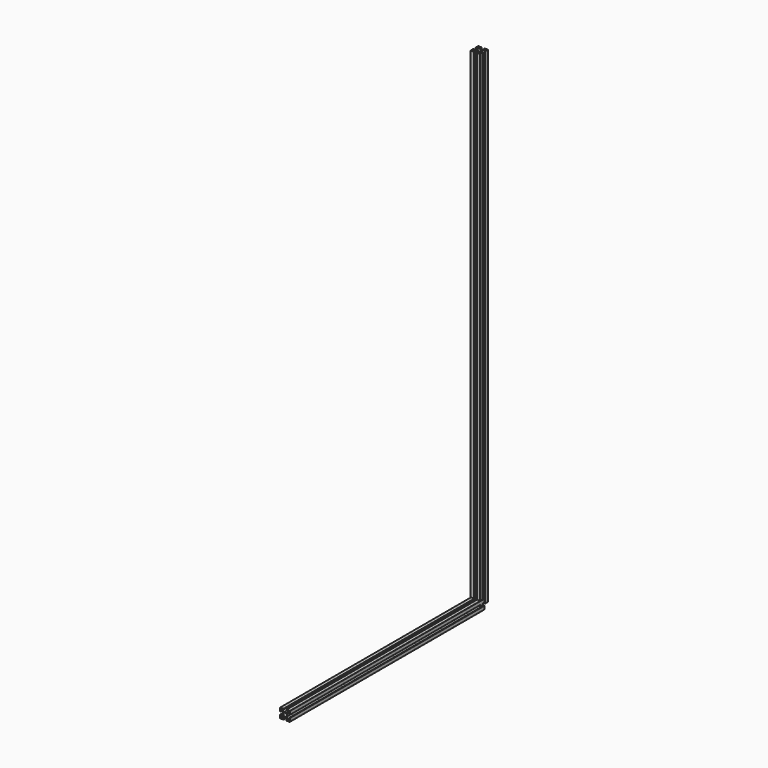
from build123d import *

# Parameters (mm, degrees)
F2_DEPTH = 1000
F5_DEPTH = 500


with BuildPart() as f2:
    # F1 (on Top) → F2 (new body)
    with BuildSketch(Plane.XY):
        with BuildLine():
            Line((3.15, -10), (9.5, -10))
            ThreePointArc((9.5, -10), (9.8535533906, -9.8535533906), (10, -9.5))
            Line((10, -9.5), (10, -3.15))
            ThreePointArc((10, -3.15), (9.8535533906, -2.7964466094), (9.5, -2.65))
            Line((9.5, -2.65), (9, -2.65))
            ThreePointArc((9, -2.65), (8.6464466094, -2.7964466094), (8.5, -3.15))
            Line((8.5, -3.15), (8.5, -6.232233047))
            ThreePointArc((8.5, -6.232233047), (8.1913417162, -6.6941728133), (7.6464466094, -6.5857864376))
            Line((7.6464466094, -6.5857864376), (3.7564466094, -2.6957864376))
            ThreePointArc((3.7564466094, -2.6957864376), (3.6480602337, -2.5335747632), (3.61, -2.342233047))
            Line((3.61, -2.342233047), (3.61, 0))
            Line((3.61, 0), (3.61, 2.342233047))
            ThreePointArc((3.61, 2.342233047), (3.6480602337, 2.5335747632), (3.7564466094, 2.6957864376))
            Line((3.7564466094, 2.6957864376), (7.6464466094, 6.5857864376))
            ThreePointArc((7.6464466094, 6.5857864376), (8.1913417162, 6.6941728133), (8.5, 6.232233047))
            Line((8.5, 6.232233047), (8.5, 3.15))
            ThreePointArc((8.5, 3.15), (8.6464466094, 2.7964466094), (9, 2.65))
            Line((9, 2.65), (9.5, 2.65))
            ThreePointArc((9.5, 2.65), (9.8535533906, 2.7964466094), (10, 3.15))
            Line((10, 3.15), (10, 9.5))
            ThreePointArc((10, 9.5), (9.8535533906, 9.8535533906), (9.5, 10))
            Line((9.5, 10), (3.15, 10))
            ThreePointArc((3.15, 10), (2.7964466094, 9.8535533906), (2.65, 9.5))
            Line((2.65, 9.5), (2.65, 9))
            ThreePointArc((2.65, 9), (2.7964466094, 8.6464466094), (3.15, 8.5))
            Line((3.15, 8.5), (6.232233047, 8.5))
            ThreePointArc((6.232233047, 8.5), (6.6941728133, 8.1913417162), (6.5857864376, 7.6464466094))
            Line((6.5857864376, 7.6464466094), (2.6957864376, 3.7564466094))
            ThreePointArc((2.6957864376, 3.7564466094), (2.5335747632, 3.6480602337), (2.342233047, 3.61))
            Line((2.342233047, 3.61), (0, 3.61))
            Line((0, 3.61), (-2.342233047, 3.61))
            ThreePointArc((-2.342233047, 3.61), (-2.5335747632, 3.6480602337), (-2.6957864376, 3.7564466094))
            Line((-2.6957864376, 3.7564466094), (-6.5857864376, 7.6464466094))
            ThreePointArc((-6.5857864376, 7.6464466094), (-6.6941728133, 8.1913417162), (-6.232233047, 8.5))
            Line((-6.232233047, 8.5), (-3.15, 8.5))
            ThreePointArc((-3.15, 8.5), (-2.7964466094, 8.6464466094), (-2.65, 9))
            Line((-2.65, 9), (-2.65, 9.5))
            ThreePointArc((-2.65, 9.5), (-2.7964466094, 9.8535533906), (-3.15, 10))
            Line((-3.15, 10), (-9.5, 10))
            ThreePointArc((-9.5, 10), (-9.8535533906, 9.8535533906), (-10, 9.5))
            Line((-10, 9.5), (-10, 3.15))
            ThreePointArc((-10, 3.15), (-9.8535533906, 2.7964466094), (-9.5, 2.65))
            Line((-9.5, 2.65), (-9, 2.65))
            ThreePointArc((-9, 2.65), (-8.6464466094, 2.7964466094), (-8.5, 3.15))
            Line((-8.5, 3.15), (-8.5, 6.232233047))
            ThreePointArc((-8.5, 6.232233047), (-8.1913417162, 6.6941728133), (-7.6464466094, 6.5857864376))
            Line((-7.6464466094, 6.5857864376), (-3.7564466094, 2.6957864376))
            ThreePointArc((-3.7564466094, 2.6957864376), (-3.6480602337, 2.5335747632), (-3.61, 2.342233047))
            Line((-3.61, 2.342233047), (-3.61, 0))
            Line((-3.61, 0), (-3.61, -2.342233047))
            ThreePointArc((-3.61, -2.342233047), (-3.6480602337, -2.5335747632), (-3.7564466094, -2.6957864376))
            Line((-3.7564466094, -2.6957864376), (-7.6464466094, -6.5857864376))
            ThreePointArc((-7.6464466094, -6.5857864376), (-8.1913417162, -6.6941728133), (-8.5, -6.232233047))
            Line((-8.5, -6.232233047), (-8.5, -2.95))
            ThreePointArc((-8.5, -2.95), (-8.5878679656, -2.7378679656), (-8.8, -2.65))
            Line((-8.8, -2.65), (-9.5, -2.65))
            ThreePointArc((-9.5, -2.65), (-9.8535533906, -2.7964466094), (-10, -3.15))
            Line((-10, -3.15), (-10, -9.5))
            ThreePointArc((-10, -9.5), (-9.8535533906, -9.8535533906), (-9.5, -10))
            Line((-9.5, -10), (-3.15, -10))
            ThreePointArc((-3.15, -10), (-2.7964466094, -9.8535533906), (-2.65, -9.5))
            Line((-2.65, -9.5), (-2.65, -9))
            ThreePointArc((-2.65, -9), (-2.7964466094, -8.6464466094), (-3.15, -8.5))
            Line((-3.15, -8.5), (-6.232233047, -8.5))
            ThreePointArc((-6.232233047, -8.5), (-6.6941728133, -8.1913417162), (-6.5857864376, -7.6464466094))
            Line((-6.5857864376, -7.6464466094), (-2.6957864376, -3.7564466094))
            ThreePointArc((-2.6957864376, -3.7564466094), (-2.5335747632, -3.6480602337), (-2.342233047, -3.61))
            Line((-2.342233047, -3.61), (0, -3.61))
            Line((0, -3.61), (2.342233047, -3.61))
            ThreePointArc((2.342233047, -3.61), (2.5335747632, -3.6480602337), (2.6957864376, -3.7564466094))
            Line((2.6957864376, -3.7564466094), (6.5857864376, -7.6464466094))
            ThreePointArc((6.5857864376, -7.6464466094), (6.6941728133, -8.1913417162), (6.232233047, -8.5))
            Line((6.232233047, -8.5), (3.15, -8.5))
            ThreePointArc((3.15, -8.5), (2.7964466094, -8.6464466094), (2.65, -9))
            Line((2.65, -9), (2.65, -9.5))
            ThreePointArc((2.65, -9.5), (2.7964466094, -9.8535533906), (3.15, -10))
        make_face()
    extrude(amount=F2_DEPTH)


with BuildPart() as f5:
    # F4 (on Front) → F5 (new body)
    with BuildSketch(Plane.XZ):
        with BuildLine():
            Line((3.7936762605, -9.7476280873), (10.1436762605, -9.7476280873))
            ThreePointArc((10.1436762605, -9.7476280873), (10.4972296511, -9.6011814779), (10.6436762605, -9.2476280873))
            Line((10.6436762605, -9.2476280873), (10.6436762605, -2.8976280873))
            ThreePointArc((10.6436762605, -2.8976280873), (10.4972296511, -2.5440746967), (10.1436762605, -2.3976280873))
            Line((10.1436762605, -2.3976280873), (9.6436762605, -2.3976280873))
            ThreePointArc((9.6436762605, -2.3976280873), (9.2901228699, -2.5440746967), (9.1436762605, -2.8976280873))
            Line((9.1436762605, -2.8976280873), (9.1436762605, -5.9798611343))
            ThreePointArc((9.1436762605, -5.9798611343), (8.8350179767, -6.4418009006), (8.2901228699, -6.3334145249))
            Line((8.2901228699, -6.3334145249), (4.4001228699, -2.4434145249))
            ThreePointArc((4.4001228699, -2.4434145249), (4.2917364943, -2.2812028505), (4.2536762605, -2.0898611343))
            Line((4.2536762605, -2.0898611343), (4.2536762605, 0.2523719127))
            Line((4.2536762605, 0.2523719127), (4.2536762605, 2.5946049597))
            ThreePointArc((4.2536762605, 2.5946049597), (4.2917364943, 2.7859466759), (4.4001228699, 2.9481583503))
            Line((4.4001228699, 2.9481583503), (8.2901228699, 6.8381583503))
            ThreePointArc((8.2901228699, 6.8381583503), (8.8350179767, 6.946544726), (9.1436762605, 6.4846049597))
            Line((9.1436762605, 6.4846049597), (9.1436762605, 3.4023719127))
            ThreePointArc((9.1436762605, 3.4023719127), (9.2901228699, 3.0488185221), (9.6436762605, 2.9023719127))
            Line((9.6436762605, 2.9023719127), (10.1436762605, 2.9023719127))
            ThreePointArc((10.1436762605, 2.9023719127), (10.4972296511, 3.0488185221), (10.6436762605, 3.4023719127))
            Line((10.6436762605, 3.4023719127), (10.6436762605, 9.7523719127))
            ThreePointArc((10.6436762605, 9.7523719127), (10.4972296511, 10.1059253033), (10.1436762605, 10.2523719127))
            Line((10.1436762605, 10.2523719127), (3.7936762605, 10.2523719127))
            ThreePointArc((3.7936762605, 10.2523719127), (3.4401228699, 10.1059253033), (3.2936762605, 9.7523719127))
            Line((3.2936762605, 9.7523719127), (3.2936762605, 9.2523719127))
            ThreePointArc((3.2936762605, 9.2523719127), (3.4401228699, 8.8988185221), (3.7936762605, 8.7523719127))
            Line((3.7936762605, 8.7523719127), (6.8759093076, 8.7523719127))
            ThreePointArc((6.8759093076, 8.7523719127), (7.3378490738, 8.4437136289), (7.2294626982, 7.8988185221))
            Line((7.2294626982, 7.8988185221), (3.3394626982, 4.0088185221))
            ThreePointArc((3.3394626982, 4.0088185221), (3.1772510238, 3.9004321465), (2.9859093076, 3.8623719127))
            Line((2.9859093076, 3.8623719127), (0.6436762605, 3.8623719127))
            Line((0.6436762605, 3.8623719127), (-1.6985567865, 3.8623719127))
            ThreePointArc((-1.6985567865, 3.8623719127), (-1.8898985027, 3.9004321465), (-2.0521101771, 4.0088185221))
            Line((-2.0521101771, 4.0088185221), (-5.9421101771, 7.8988185221))
            ThreePointArc((-5.9421101771, 7.8988185221), (-6.0504965527, 8.4437136289), (-5.5885567865, 8.7523719127))
            Line((-5.5885567865, 8.7523719127), (-2.5063237395, 8.7523719127))
            ThreePointArc((-2.5063237395, 8.7523719127), (-2.1527703489, 8.8988185221), (-2.0063237395, 9.2523719127))
            Line((-2.0063237395, 9.2523719127), (-2.0063237395, 9.7523719127))
            ThreePointArc((-2.0063237395, 9.7523719127), (-2.1527703489, 10.1059253033), (-2.5063237395, 10.2523719127))
            Line((-2.5063237395, 10.2523719127), (-8.8563237395, 10.2523719127))
            ThreePointArc((-8.8563237395, 10.2523719127), (-9.2098771301, 10.1059253033), (-9.3563237395, 9.7523719127))
            Line((-9.3563237395, 9.7523719127), (-9.3563237395, 3.4023719127))
            ThreePointArc((-9.3563237395, 3.4023719127), (-9.2098771301, 3.0488185221), (-8.8563237395, 2.9023719127))
            Line((-8.8563237395, 2.9023719127), (-8.3563237395, 2.9023719127))
            ThreePointArc((-8.3563237395, 2.9023719127), (-8.0027703489, 3.0488185221), (-7.8563237395, 3.4023719127))
            Line((-7.8563237395, 3.4023719127), (-7.8563237395, 6.4846049597))
            ThreePointArc((-7.8563237395, 6.4846049597), (-7.5476654556, 6.946544726), (-7.0027703489, 6.8381583503))
            Line((-7.0027703489, 6.8381583503), (-3.1127703489, 2.9481583503))
            ThreePointArc((-3.1127703489, 2.9481583503), (-3.0043839732, 2.7859466759), (-2.9663237395, 2.5946049597))
            Line((-2.9663237395, 2.5946049597), (-2.9663237395, 0.2523719127))
            Line((-2.9663237395, 0.2523719127), (-2.9663237395, -2.0898611343))
            ThreePointArc((-2.9663237395, -2.0898611343), (-3.0043839732, -2.2812028505), (-3.1127703489, -2.4434145249))
            Line((-3.1127703489, -2.4434145249), (-7.0027703489, -6.3334145249))
            ThreePointArc((-7.0027703489, -6.3334145249), (-7.5476654556, -6.4418009006), (-7.8563237395, -5.9798611343))
            Line((-7.8563237395, -5.9798611343), (-7.8563237395, -2.6976280873))
            ThreePointArc((-7.8563237395, -2.6976280873), (-7.9441917051, -2.4854960529), (-8.1563237395, -2.3976280873))
            Line((-8.1563237395, -2.3976280873), (-8.8563237395, -2.3976280873))
            ThreePointArc((-8.8563237395, -2.3976280873), (-9.2098771301, -2.5440746967), (-9.3563237395, -2.8976280873))
            Line((-9.3563237395, -2.8976280873), (-9.3563237395, -9.2476280873))
            ThreePointArc((-9.3563237395, -9.2476280873), (-9.2098771301, -9.6011814779), (-8.8563237395, -9.7476280873))
            Line((-8.8563237395, -9.7476280873), (-2.5063237395, -9.7476280873))
            ThreePointArc((-2.5063237395, -9.7476280873), (-2.1527703489, -9.6011814779), (-2.0063237395, -9.2476280873))
            Line((-2.0063237395, -9.2476280873), (-2.0063237395, -8.7476280873))
            ThreePointArc((-2.0063237395, -8.7476280873), (-2.1527703489, -8.3940746967), (-2.5063237395, -8.2476280873))
            Line((-2.5063237395, -8.2476280873), (-5.5885567865, -8.2476280873))
            ThreePointArc((-5.5885567865, -8.2476280873), (-6.0504965527, -7.9389698035), (-5.9421101771, -7.3940746967))
            Line((-5.9421101771, -7.3940746967), (-2.0521101771, -3.5040746967))
            ThreePointArc((-2.0521101771, -3.5040746967), (-1.8898985027, -3.395688321), (-1.6985567865, -3.3576280873))
            Line((-1.6985567865, -3.3576280873), (0.6436762605, -3.3576280873))
            Line((0.6436762605, -3.3576280873), (2.9859093076, -3.3576280873))
            ThreePointArc((2.9859093076, -3.3576280873), (3.1772510238, -3.395688321), (3.3394626982, -3.5040746967))
            Line((3.3394626982, -3.5040746967), (7.2294626982, -7.3940746967))
            ThreePointArc((7.2294626982, -7.3940746967), (7.3378490738, -7.9389698035), (6.8759093076, -8.2476280873))
            Line((6.8759093076, -8.2476280873), (3.7936762605, -8.2476280873))
            ThreePointArc((3.7936762605, -8.2476280873), (3.4401228699, -8.3940746967), (3.2936762605, -8.7476280873))
            Line((3.2936762605, -8.7476280873), (3.2936762605, -9.2476280873))
            ThreePointArc((3.2936762605, -9.2476280873), (3.4401228699, -9.6011814779), (3.7936762605, -9.7476280873))
        make_face()
    extrude(amount=F5_DEPTH)


solid = Compound([f2.part, f5.part])
